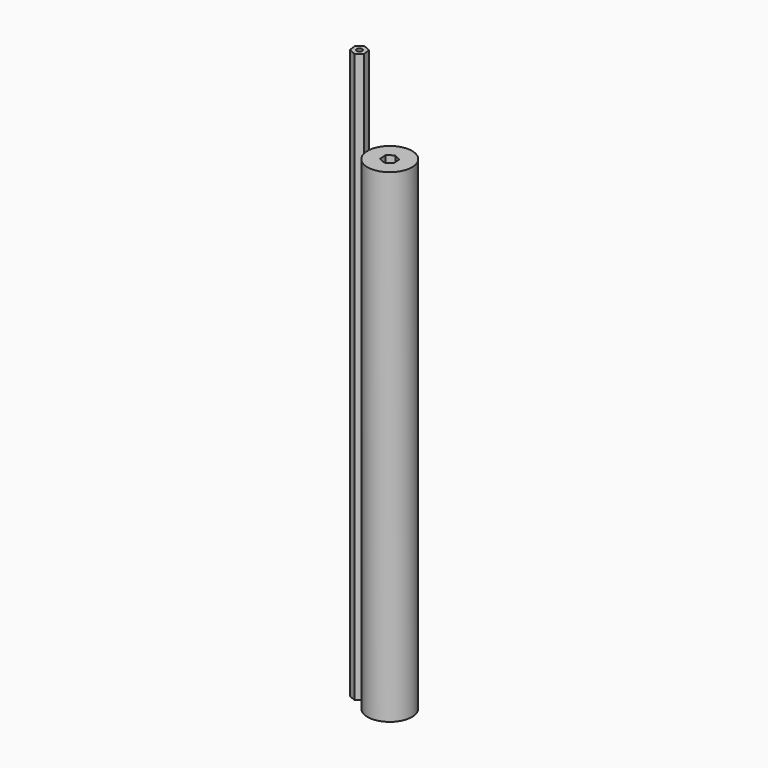
from build123d import *

# Parameters (mm, degrees)
F0_R     = 2.5527
F1_DEPTH = 552.45
F2_R     = 21.59
F3_DEPTH = 469.9


with BuildPart() as f1:
    # F0 (on Top) → F1 (new body)
    with BuildSketch(Plane.XY):
        Polygon((-52.773612, 50.513388), (-46.935875, 54.950072), (-47.859286, 62.224042), (-54.620435, 65.061329), (-60.458173, 60.624646), (-59.534761, 53.350675), align=None)
        with Locations((-53.697024, 57.787359)):
            Circle(F0_R, mode=Mode.SUBTRACT)
    extrude(amount=F1_DEPTH)


with BuildPart() as f3:
    # F2 (on Top) → F3 (new body)
    with BuildSketch(Plane.XY):
        with Locations((-22.956457, 56.120712)):
            Circle(F2_R)
        Polygon((-16.376775, 52.884802), (-22.468997, 48.804585), (-29.048679, 52.040496), (-29.536139, 59.356623), (-23.443917, 63.436839), (-16.864235, 60.200929), align=None, mode=Mode.SUBTRACT)
    extrude(amount=F3_DEPTH)


solid = Compound([f1.part, f3.part])
